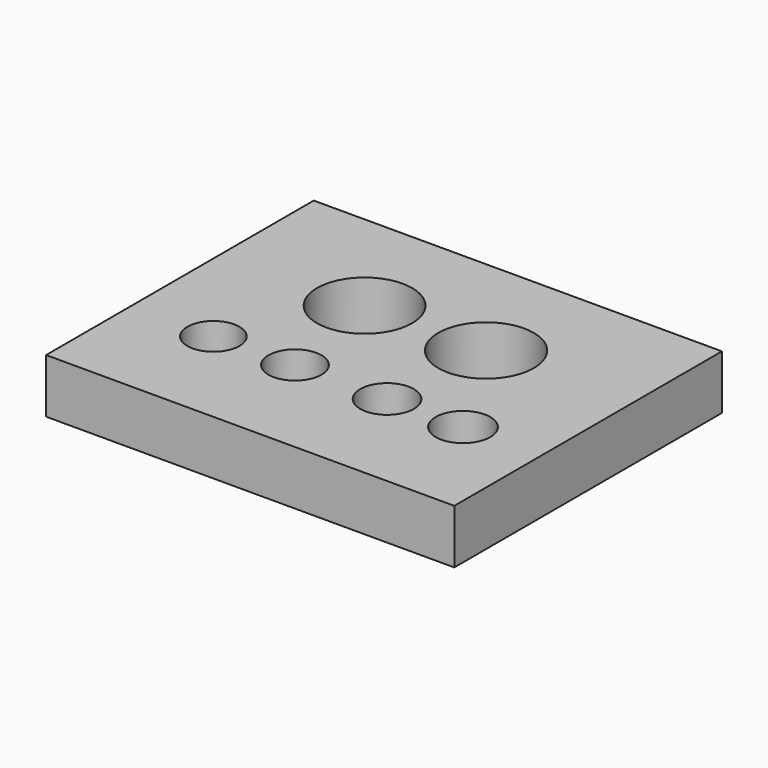
from build123d import *

# Parameters (mm, degrees)
F0_W     = 150.454134
F0_H     = 123.317614
F0_R     = 9.6
F0_R_2   = 9.75
F0_R_3   = 9.9
F0_R_4   = 10.05
F0_R_5   = 17.55
F0_R_6   = 17.6
F1_DEPTH = 20


with BuildPart() as f1:
    # F0 (on Top) → F1 (new body)
    with BuildSketch(Plane.XY):
        Rectangle(F0_W, F0_H)
        with Locations((-44.894449, -22.488749)):
            Circle(F0_R, mode=Mode.SUBTRACT)
        with Locations((-15.423641, -21.742653)):
            Circle(F0_R_2, mode=Mode.SUBTRACT)
        with Locations((18.525797, -21.742653)):
            Circle(F0_R_3, mode=Mode.SUBTRACT)
        with Locations((46.506854, -21.742653)):
            Circle(F0_R_4, mode=Mode.SUBTRACT)
        with Locations((-22.884605, 19.665696)):
            Circle(F0_R_5, mode=Mode.SUBTRACT)
        with Locations((21.88118, 19.665696)):
            Circle(F0_R_6, mode=Mode.SUBTRACT)
    extrude(amount=F1_DEPTH)


solid = f1.part
